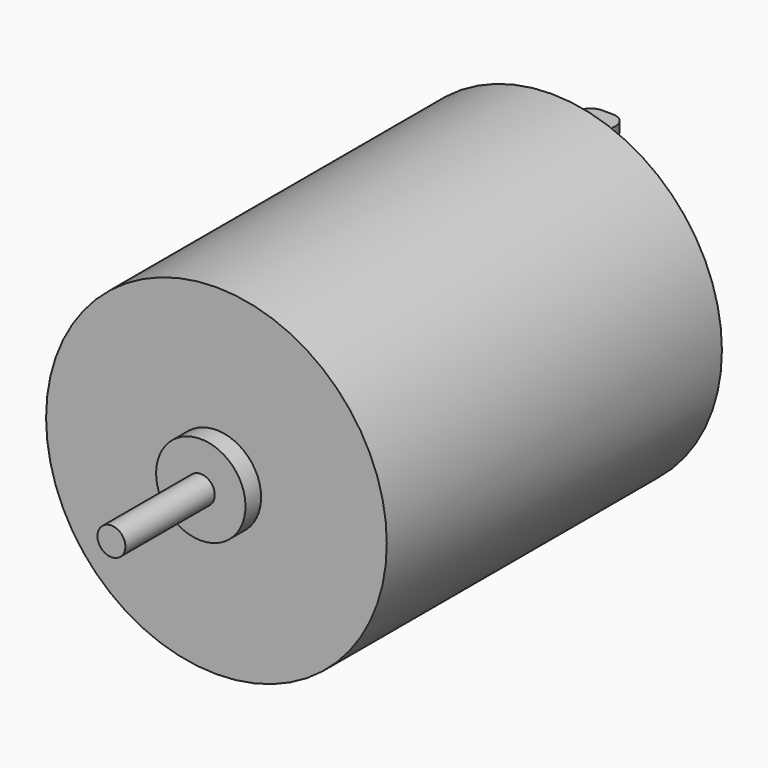
from build123d import *

# Parameters (mm, degrees)
SKETCH094_R             = 12.2
PAD046_DEPTH            = 30
SKETCH095_R             = 3.2
PAD042_DEPTH            = 1.4
SKETCH100_R             = 1
PAD045_DEPTH            = 8
SKETCH098_R             = 11.95
POCKET040_DEPTH         = 1
SKETCH096_R             = 3.2
PAD047_DEPTH            = 2.2
SKETCH099_R             = 1
PAD044_DEPTH            = 2.7
SKETCH097_W             = 0.7
SKETCH097_H             = 2.8
PAD043_DEPTH            = 6
FILLET018_R             = 1
BODY016_PITCH_ANGLE     = 90
BODY016_PLACEMENT_ANGLE = -90


with BuildPart() as part:
    # Sketch094 → Pad046 (new body)
    with BuildSketch(Plane.XY):
        Circle(SKETCH094_R)
    extrude(amount=PAD046_DEPTH)

    # Sketch095 (on Face3 of Pad046) → Pad042 (join)
    with BuildSketch(Plane.XY.offset(30)):
        Circle(SKETCH095_R)
    extrude(amount=PAD042_DEPTH)

    # Sketch100 (on Face5 of Pad042) → Pad045 (join)
    with BuildSketch(Plane.XY.offset(31.4)):
        Circle(SKETCH100_R)
    extrude(amount=PAD045_DEPTH)

    # Sketch098 (on Face2 of Pad045) → Pocket040 (cut)
    with BuildSketch(Plane(origin=(0, 0, 0), x_dir=(1, 0, 0), z_dir=(0, 0, -1))):
        Circle(SKETCH098_R)
    extrude(amount=-POCKET040_DEPTH, mode=Mode.SUBTRACT)

    # Sketch096 (on Face6 of Pocket040) → Pad047 (join)
    with BuildSketch(Plane(origin=(0, 0, 1), x_dir=(1, 0, 0), z_dir=(0, 0, -1))):
        Circle(SKETCH096_R)
    extrude(amount=PAD047_DEPTH)

    # Sketch099 (on Face10 of Pad047) → Pad044 (join)
    with BuildSketch(Plane(origin=(0, 0, -1.2), x_dir=(1, 0, 0), z_dir=(0, 0, -1))):
        Circle(SKETCH099_R)
    extrude(amount=PAD044_DEPTH)

    # Sketch097 (on Face6 of Pad044) → Pad043 (join)
    with BuildSketch(Plane(origin=(0, 0, 1), x_dir=(1, 0, 0), z_dir=(0, 0, -1))):
        with Locations((-8.65, 0)):
            Rectangle(SKETCH097_W, SKETCH097_H)
        with Locations((8.65, 0)):
            Rectangle(SKETCH097_W, SKETCH097_H)
    extrude(amount=PAD043_DEPTH)

    # Fillet018
    fillet018_edges = [part.edges().sort_by_distance(p)[0] for p in [
        (-8.65, -1.4, -5),
        (-8.65, 1.4, -5),
        (8.65, -1.4, -5),
        (8.65, 1.4, -5),
    ]]
    fillet(fillet018_edges, radius=FILLET018_R)


with BuildPart() as part_1:
    # Body016 pitch: moved
    add(part.part.rotate(Axis((0, 0, 0), (0, 1, 0)), BODY016_PITCH_ANGLE))


with BuildPart() as part_2:
    # Body016 placement: moved
    add(part_1.part.moved(Location((15, 0, 22))).rotate(Axis((15, 0, 22), (0, 0, 1)), BODY016_PLACEMENT_ANGLE))


solid = part_2.part
